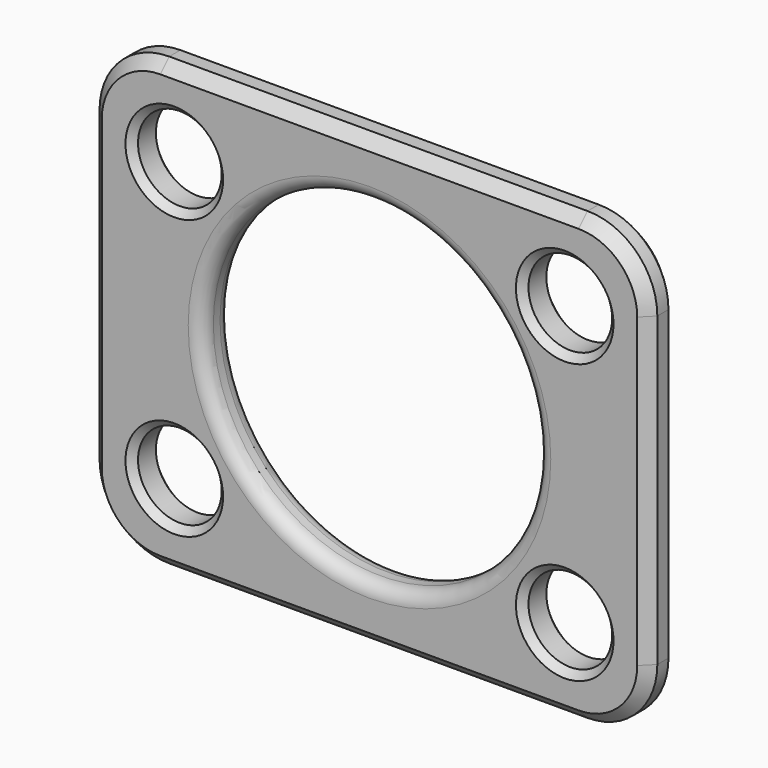
from build123d import *

# Parameters (mm, degrees)
F0_R     = 19.05
F0_R_2   = 76.2
F1_DEPTH = 16.51
F2_SIZE  = 5.08
F3_SIZE  = 5.08
F4_SIZE  = 3.175
F5_R     = 6.35


with BuildPart() as f1:
    # F0 (on Front) → F1 (new body)
    with BuildSketch(Plane.XZ):
        with BuildLine():
            Line((95.25, 101.6), (-95.25, 101.6))
            ThreePointArc((-95.25, 101.6), (-117.70064, 92.30064), (-127, 69.85))
            Line((-127, 69.85), (-127, -69.85))
            ThreePointArc((-127, -69.85), (-117.70064, -92.30064), (-95.25, -101.6))
            Line((-95.25, -101.6), (95.25, -101.6))
            ThreePointArc((95.25, -101.6), (117.70064, -92.30064), (127, -69.85))
            Line((127, -69.85), (127, 69.85))
            ThreePointArc((127, 69.85), (117.70064, 92.30064), (95.25, 101.6))
        make_face()
        with Locations((-88.9, -63.5)):
            Circle(F0_R, mode=Mode.SUBTRACT)
        with Locations((88.9, -63.5)):
            Circle(F0_R, mode=Mode.SUBTRACT)
        Circle(F0_R_2, mode=Mode.SUBTRACT)
        with Locations((-88.9, 63.5)):
            Circle(F0_R, mode=Mode.SUBTRACT)
        with Locations((88.9, 63.5)):
            Circle(F0_R, mode=Mode.SUBTRACT)
    extrude(amount=F1_DEPTH)

    # F2
    f2_edges = [f1.edges().sort_by_distance(p)[0] for p in [
        (0, -16.51, 101.6),
        (-117.70064, -16.51, 92.30064),
    ]]
    chamfer(f2_edges, length=F2_SIZE)

    # F3
    f3_edges = [f1.edges().sort_by_distance(p)[0] for p in [
        (127, 0, 0),
    ]]
    chamfer(f3_edges, length=F3_SIZE)

    # F4
    f4_edges = [f1.edges().sort_by_distance(p)[0] for p in [
        (-107.95, -16.51, 63.5),
        (69.85, -16.51, 63.5),
        (69.85, -16.51, -63.5),
        (-107.95, -16.51, -63.5),
        (-107.95, 0, 63.5),
        (69.85, 0, 63.5),
        (69.85, 0, -63.5),
        (-107.95, 0, -63.5),
    ]]
    chamfer(f4_edges, length=F4_SIZE)

    # F5
    f5_edges = [f1.edges().sort_by_distance(p)[0] for p in [
        (-76.2, 0, 0),
        (-76.2, -16.51, 0),
    ]]
    fillet(f5_edges, radius=F5_R)


solid = f1.part
